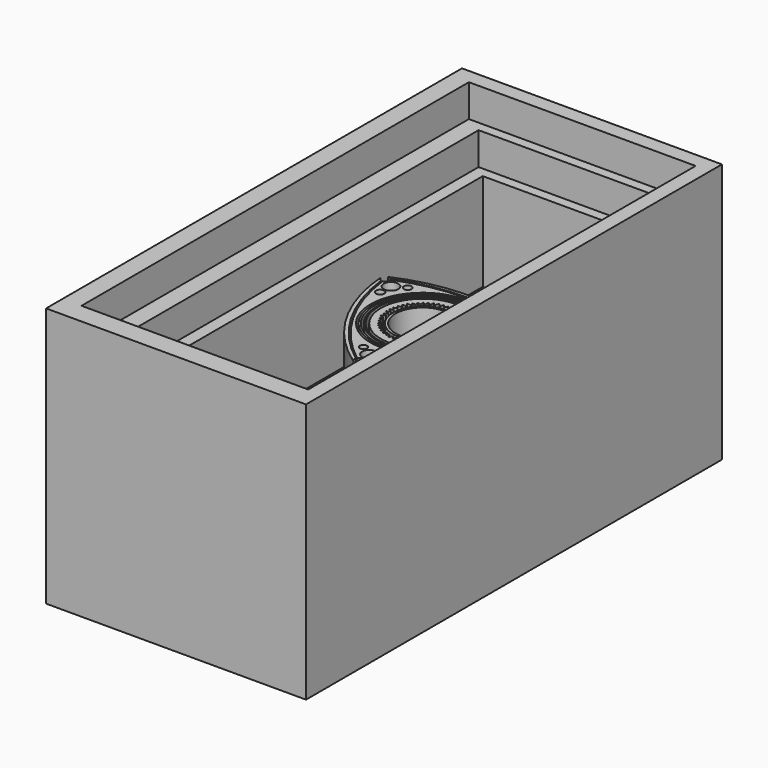
from build123d import *

# Parameters (mm, degrees)
F0_W     = 50.8
F0_H     = 50.8
F1_DEPTH = 101.6
F2_W     = 44.3066135049
F2_H     = 94.6354814805
F3_DEPTH = 6.35
F4_W     = 37.4240316451
F4_H     = 89.0433830209
F5_DEPTH = 6.35
F6_W     = 32.4771767482
F6_H     = 84.3116114847
F7_DEPTH = 6.35
F8_W     = 32.4771767482
F8_H     = 84.3116114847
F8_R     = 10.1678147524
F8_R_2   = 9.7737572381
F8_R_3   = 9.4393596811
F8_R_4   = 8.9633998059
F8_R_5   = 8.6901140659
F8_R_6   = 8.1479654601
F8_R_7   = 5.7442703872
F8_R_8   = 5.2684937776
F8_R_9   = 1.4373383873
F8_R_10  = 1.4280717229
F8_R_11  = 1.3711974025
F8_R_12  = 0.8137223733
F8_R_13  = 0.808371562
F8_R_14  = 0.7801629249
F8_R_15  = 0.7604526901
F8_R_16  = 0.7532903041
F8_R_17  = 0.7174101119
F9_DEPTH = 12.7


with BuildPart() as f1:
    # F0 (on Front) → F1 (new body)
    with BuildSketch(Plane.XZ):
        with Locations((6.769919461, -8.9821793795)):
            Rectangle(F0_W, F0_H)
    extrude(amount=F1_DEPTH)

    # F2 (on face) → F3 (cut)
    with BuildSketch(Plane.XY.offset(16.4178206205)):
        with Locations((7.2052013129, -50.2315710764)):
            Rectangle(F2_W, F2_H)
    extrude(amount=-F3_DEPTH, mode=Mode.SUBTRACT)

    # F4 (on face) → F5 (cut)
    with BuildSketch(Plane.XY.offset(10.0678206205)):
        with Locations((7.2052013129, -49.3712478783)):
            Rectangle(F4_W, F4_H)
    extrude(amount=-F5_DEPTH, mode=Mode.SUBTRACT)

    # F6 (on face) → F7 (cut)
    with BuildSketch(Plane.XY.offset(3.7178206205)):
        with Locations((7.0976619609, -48.9410872106)):
            Rectangle(F6_W, F6_H)
    extrude(amount=-F7_DEPTH, mode=Mode.SUBTRACT)

    # F8 (on face) → F9 (cut)
    with BuildSketch(Plane.XY.offset(-2.6321793795)):
        with Locations((7.0976619609, -48.9410872106)):
            Rectangle(F8_W, F8_H)
        with BuildLine():
            ThreePointArc((-7.2590942846, -32.3166020813), (6.4487901666, -29.3683693172), (20.1567572763, -32.3162177321))
            ThreePointArc((20.1567572763, -32.3162177321), (19.767294852, -32.3601511526), (19.4385948227, -32.5736164101))
            ThreePointArc((19.4385948227, -32.5736164101), (19.357341122, -32.6724837173), (19.2917935211, -32.7823946828))
            ThreePointArc((19.2917935211, -32.7823946828), (19.327342987, -33.6079975325), (20.0459617996, -34.0160059052))
            ThreePointArc((20.0459617996, -34.0160059052), (20.2114003791, -34.0016080925), (20.3709136857, -33.9554266497))
            ThreePointArc((20.3709136857, -33.9554266497), (20.6816906544, -33.7418000774), (20.8699785581, -33.4150489459))
            ThreePointArc((20.8699785581, -33.4150489459), (16.5302491222, -46.7865494913), (7.1578489462, -57.2645451658))
            ThreePointArc((7.1578489462, -57.2645451658), (7.3606056605, -56.9054100514), (7.3693334408, -56.4930847655))
            ThreePointArc((7.3693334408, -56.4930847655), (7.336530634, -56.3841762909), (7.2894055698, -56.2806566874))
            ThreePointArc((7.2894055698, -56.2806566874), (6.591862942, -55.8377599289), (5.8498100164, -56.2011890304))
            ThreePointArc((5.8498100164, -56.2011890304), (5.7937980536, -56.2945533776), (5.7502495057, -56.3943419806))
            ThreePointArc((5.7502495057, -56.3943419806), (5.7241988306, -56.8833601688), (5.9736422393, -57.3047808754))
            ThreePointArc((5.9736422393, -57.3047808754), (-3.7286135476, -46.8661627271), (-7.9666539897, -33.2596374759))
            ThreePointArc((-7.9666539897, -33.2596374759), (-7.7341264767, -33.7113541825), (-7.2799153548, -33.938970711))
            ThreePointArc((-7.2799153548, -33.938970711), (-7.1369050087, -33.9477791073), (-6.9945486267, -33.9315246469))
            ThreePointArc((-6.9945486267, -33.9315246469), (-6.4400571154, -33.5225130754), (-6.3940921187, -32.8350259694))
            ThreePointArc((-6.3940921187, -32.8350259694), (-6.456643866, -32.707035821), (-6.54043157, -32.5918237564))
            ThreePointArc((-6.54043157, -32.5918237564), (-6.865416666, -32.3645274776), (-7.2590942846, -32.3166020813))
        make_face(mode=Mode.SUBTRACT)
        with Locations((6.4846733585, -41.0179682076)):
            Circle(F8_R)
        with Locations((6.4846733585, -41.0179682076)):
            Circle(F8_R_2, mode=Mode.SUBTRACT)
        with Locations((6.4846733585, -41.0179682076)):
            Circle(F8_R_3)
        with Locations((6.4846733585, -41.0179682076)):
            Circle(F8_R_4, mode=Mode.SUBTRACT)
        with Locations((6.4846733585, -41.0179682076)):
            Circle(F8_R_5)
        with Locations((6.4846733585, -41.0179682076)):
            Circle(F8_R_6, mode=Mode.SUBTRACT)
        Polygon((7.3055103421, -34.6446931362), (6.9298404269, -34.12514925), (6.4800903201, -34.7866229713), (6.1014131643, -34.1592617333), (5.7566477917, -34.8261855543), (5.2665757078, -34.2227411292), (4.9597308971, -34.9053107202), (4.4768619702, -34.3774388064), (4.1576142651, -35.0875983655), (3.6455586851, -34.7114866126), (3.563713748, -35.413980484), (2.9353509405, -35.0843526297), (2.8481338769, -35.8329566952), (2.2807342466, -35.5778858066), (2.2807342466, -36.3239347935), (1.6496912538, -36.1393801868), (1.7818476673, -36.8328051461), (1.0874191066, -36.7518998682), (1.3155465713, -37.4220237136), (0.5741323112, -37.3840034008), (0.9448394412, -38.0873978138), (0.1796618599, -38.0873978138), (0.6026482442, -38.7765318155), (-0.119755452, -38.8953499496), (0.3084443528, -39.4456870854), (-0.2895176585, -39.7546067834), (0.1619846153, -40.1871018112), (-0.451107946, -40.5102819204), (0.3084443528, -41.0147192279), (-0.4093430498, -41.3265845771), (0.3421430883, -41.6644103825), (-0.2566916228, -42.2062128782), (0.4562067334, -42.4153283238), (-0.0951013571, -43.0236682296), (0.6653236342, -43.2517975569), (0.1520367805, -43.7754362791), (0.9385940381, -43.7754362791), (0.6002374271, -44.5281031827), (1.2816334502, -44.6074900883), (0.9980094619, -45.2384054661), (1.7953038337, -45.1323728155), (1.5208016848, -45.7429968605), (2.2394858405, -45.6539918695), (2.1523039322, -46.4022941887), (2.8414390981, -46.1028777063), (2.8604497202, -46.8918196857), (3.5210687201, -46.4783385396), (3.5781005863, -47.2720302641), (4.2426693253, -46.806242317), (4.4739046545, -47.5056055282), (4.8380761459, -47.0098059611), (5.2011043807, -47.7958515646), (5.6814062409, -47.1419468522), (6.0132480218, -47.766805849), (6.448732689, -47.1739172935), (6.8865667615, -47.8465106603), (7.2320448235, -47.0780022442), (7.7055052321, -47.6806162353), (7.9993717372, -46.9980724156), (8.3659751508, -47.5211667192), (8.7016990113, -46.7743563116), (9.3327365205, -47.2378619015), (9.3327365205, -46.5235432264), (9.9971532584, -46.8222275376), (9.9971532584, -46.1394504462), (10.626965206, -46.4225783944), (10.626965206, -45.7429968605), (11.3254524767, -45.8243750036), (11.1848044808, -45.1352260922), (11.8342172354, -45.2108867466), (11.6015081225, -44.5304403278), (12.3651977628, -44.6194149554), (12.0415389538, -43.8769981265), (12.7749759704, -43.8769981265), (12.2253783047, -43.1736148894), (12.9927042872, -43.0776998401), (12.5291114673, -42.4462556839), (13.2644660771, -42.2863960266), (12.7749759704, -41.6869223118), (13.3627727628, -41.464753449), (12.724108994, -40.9956462681), (13.3684249595, -40.6056642532), (12.7749759704, -40.2439460158), (13.2566105093, -39.8047590368), (12.6111442223, -39.51459378), (13.1152393296, -38.9298424125), (12.4229481444, -38.7685336173), (12.8396674991, -38.1636172533), (12.1473763138, -38.0829609931), (12.4767189845, -37.350345403), (11.7709850892, -37.350345403), (11.9860656559, -36.8187837303), (11.333973147, -36.8187837303), (11.333973147, -36.1393801868), (10.742973385, -36.2752601504), (10.742973385, -35.6742406823), (10.143019259, -35.7557162642), (10.0550958887, -35.1082831621), (9.5195667818, -35.356067121), (9.3437209725, -34.6926487982), (8.7442472577, -35.0363478065), (8.5604088381, -34.4288796186), (8.0488575622, -34.8125435412), (7.7371313237, -34.2050790787), align=None)
        with Locations((6.4846733585, -41.0179682076)):
            Circle(F8_R_7, mode=Mode.SUBTRACT)
        with Locations((6.4846733585, -41.0179682076)):
            Circle(F8_R_8)
        with BuildLine():
            ThreePointArc((20.3709136857, -33.9554266497), (20.2114003791, -34.0016080925), (20.0459617996, -34.0160059052))
            ThreePointArc((20.0459617996, -34.0160059052), (15.7685842031, -46.3520445663), (7.2894055698, -56.2806566874))
            ThreePointArc((7.2894055698, -56.2806566874), (7.336530634, -56.3841762909), (7.3693334408, -56.4930847655))
            ThreePointArc((7.3693334408, -56.4930847655), (16.0952880997, -46.5079141574), (20.3709136857, -33.9554266497))
        make_face()
        with BuildLine():
            ThreePointArc((5.8498100164, -56.2011890304), (-2.8279261345, -46.3672826342), (-6.9945486267, -33.9315246469))
            ThreePointArc((-6.9945486267, -33.9315246469), (-7.1369050087, -33.9477791073), (-7.2799153548, -33.938970711))
            ThreePointArc((-7.2799153548, -33.938970711), (-3.1095071461, -46.5271990545), (5.7502495057, -56.3943419806))
            ThreePointArc((5.7502495057, -56.3943419806), (5.7937980536, -56.2945533776), (5.8498100164, -56.2011890304))
        make_face()
        with BuildLine():
            ThreePointArc((19.2917935211, -32.7823946828), (19.357341122, -32.6724837173), (19.4385948227, -32.5736164101))
            ThreePointArc((19.4385948227, -32.5736164101), (6.4472984559, -30.0384156056), (-6.54043157, -32.5918237564))
            ThreePointArc((-6.54043157, -32.5918237564), (-6.456643866, -32.707035821), (-6.3940921187, -32.8350259694))
            ThreePointArc((-6.3940921187, -32.8350259694), (6.4437392074, -30.3141247883), (19.2917935211, -32.7823946828))
        make_face()
        with Locations((-4.9282084219, -34.4716496766)):
            Circle(F8_R_9)
        with Locations((6.5172817558, -54.0516711771)):
            Circle(F8_R_10)
        with Locations((17.8434550762, -34.4447679818)):
            Circle(F8_R_11)
        with Locations((-5.0357482396, -36.9720645249)):
            Circle(F8_R_12)
        with Locations((15.53133782, -33.208001405)):
            Circle(F8_R_13)
        with Locations((17.977880314, -37.0527245104)):
            Circle(F8_R_14)
        with Locations((8.7621863931, -52.7476929128)):
            Circle(F8_R_15)
        with Locations((-2.6698613074, -33.208001405)):
            Circle(F8_R_16)
        with Locations((4.3127052486, -52.7476929128)):
            Circle(F8_R_17)
    extrude(amount=-F9_DEPTH, mode=Mode.SUBTRACT)


solid = f1.part
